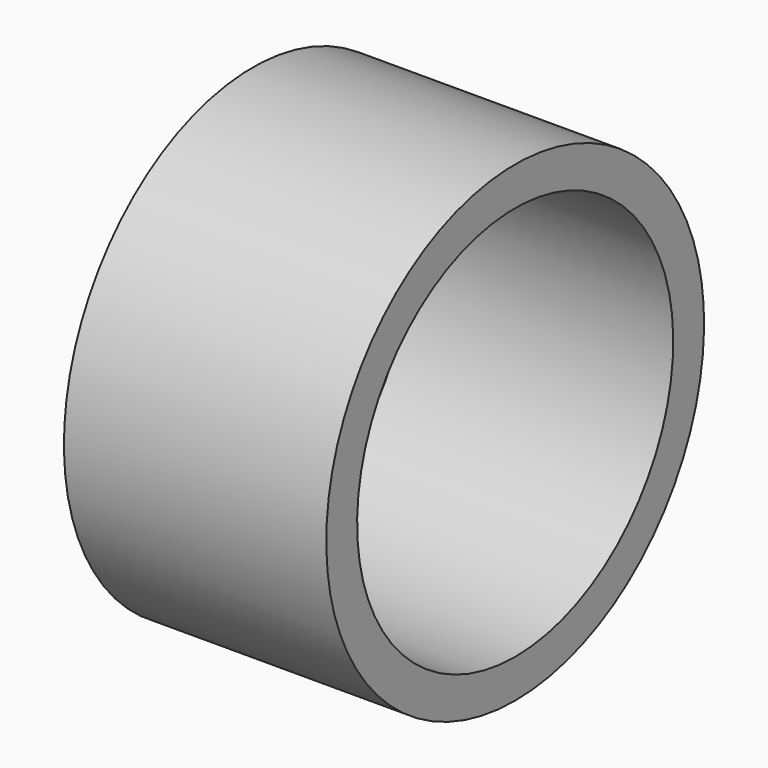
from build123d import *

# Parameters (mm, degrees)
CYLINDER_R          = 3.765
CYLINDER_DEPTH      = 5
CYLINDER001_R       = 4.5
CYLINDER001_DEPTH   = 5
CUT_PLACEMENT_ANGLE = 90


with BuildPart() as cylinder:
    # Cylinder → Cylinder (new body)
    with BuildSketch(Plane.XY.offset(10)):
        Circle(CYLINDER_R)
    extrude(amount=CYLINDER_DEPTH)


with BuildPart() as obj1:
    # Cylinder001 → Cylinder001 (new body)
    with BuildSketch(Plane.XY.offset(10)):
        Circle(CYLINDER001_R)
    extrude(amount=CYLINDER001_DEPTH)

    # Cut: cut Cylinder
    add(cylinder.part, mode=Mode.SUBTRACT)


with BuildPart() as obj1_1:
    # Cut placement: moved
    add(obj1.part.moved(Location((-13, 0, 0))).rotate(Axis((-13, 0, 0), (0, 1, 0)), CUT_PLACEMENT_ANGLE))


solid = obj1_1.part
